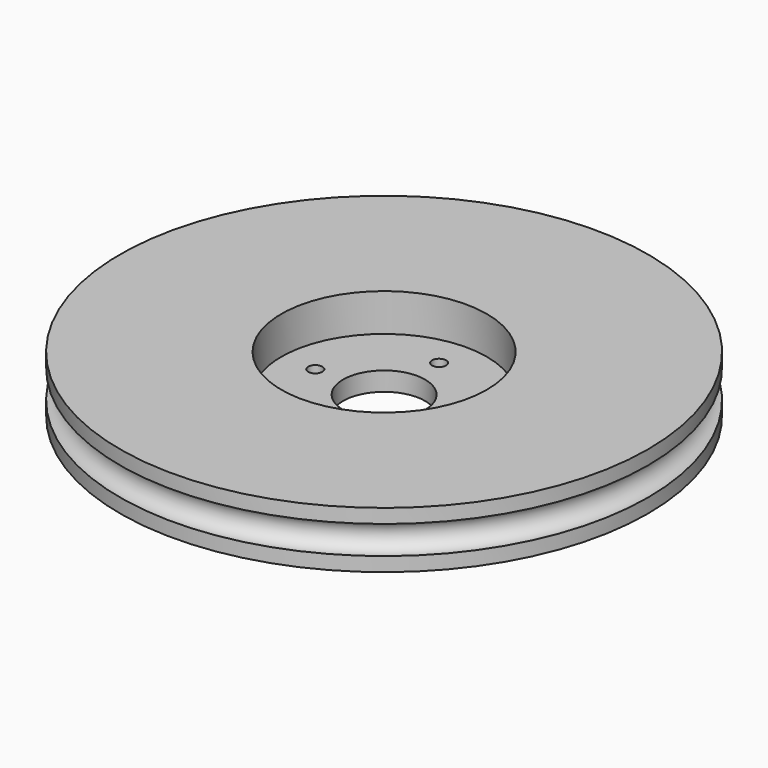
from build123d import *

# Parameters (mm, degrees)
CYLINDER003_R     = 0.75
CYLINDER003_DEPTH = 10
ARRAY_COUNT       = 4
CYLINDER002_R     = 4.35
CYLINDER002_DEPTH = 10
CYLINDER001_R     = 10.9
CYLINDER001_DEPTH = 10
TORUS_R           = 1.5
CYLINDER_R        = 28
CYLINDER_DEPTH    = 6


with BuildPart() as array:
    # Cylinder003 → Cylinder003 (new body)
    with BuildSketch(Plane(origin=(7.3, 0, -2), x_dir=(1, 0, 0), z_dir=(0, 0, 1))):
        Circle(CYLINDER003_R)
    extrude(amount=CYLINDER003_DEPTH)

    # Array: Array ×4 about axis
    array_axis = Axis((0, 0, 0), (0, 0, 1))


with BuildPart() as array_1:
    add(array.part)
    for i in range(1, ARRAY_COUNT):
        add(array.part.rotate(array_axis, i * 360 / ARRAY_COUNT))


with BuildPart() as hueco_eje:
    # Cylinder002 → Cylinder002 (new body)
    with BuildSketch(Plane.XY.offset(-2)):
        Circle(CYLINDER002_R)
    extrude(amount=CYLINDER002_DEPTH)


with BuildPart() as corona_servo:
    # Cylinder001 → Cylinder001 (new body)
    with BuildSketch(Plane.XY.offset(2)):
        Circle(CYLINDER001_R)
    extrude(amount=CYLINDER001_DEPTH)


with BuildPart() as obj1:
    # Torus → Torus (revolve)
    with BuildSketch(Plane(origin=(0, 0, 3), x_dir=(1, 0, 0), z_dir=(0, -1, 0))):
        with Locations((28, 0)):
            Circle(TORUS_R)
    revolve(axis=Axis((0, 0, 3), (0, 0, 1)))


with BuildPart() as obj2:
    # Cylinder → Cylinder (new body)
    with BuildSketch(Plane.XY):
        Circle(CYLINDER_R)
    extrude(amount=CYLINDER_DEPTH)

    # Cut: cut obj1
    add(obj1.part, mode=Mode.SUBTRACT)

    # Cut001: cut Corona_servo
    add(corona_servo.part, mode=Mode.SUBTRACT)

    # Cut002: cut Hueco_eje
    add(hueco_eje.part, mode=Mode.SUBTRACT)

    # Cut003: cut Array
    add(array_1.part, mode=Mode.SUBTRACT)


solid = obj2.part
